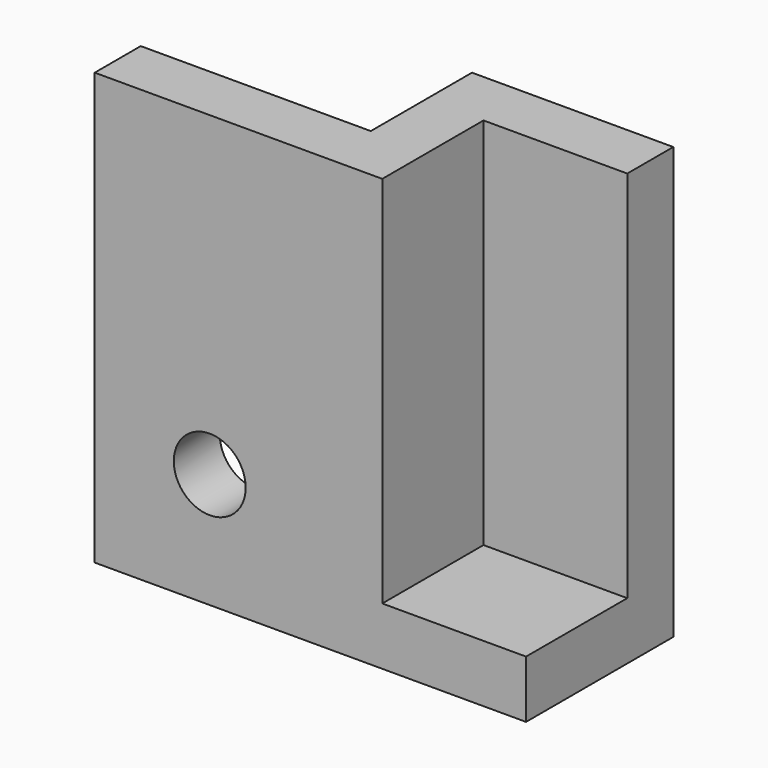
from build123d import *

# Parameters (mm, degrees)
F0_W     = 6.35
F0_H     = 2.54
F1_DEPTH = 19.05
F2_W     = 6.35
F2_H     = 5.588
F3_DEPTH = 2.54
F4_R     = 1.5875
F5_DEPTH = 25.4


with BuildPart() as f1:
    # F0 (on Top) → F1 (new body)
    with BuildSketch(Plane.XY):
        with Locations((15.875, 6.858)):
            Rectangle(F0_W, F0_H)
        Polygon((10.16, 2.54), (12.7, 2.54), (12.7, 5.588), (12.7, 8.128), (10.16, 8.128), align=None)
        Polygon((0, 2.54), (0, 0), (12.7, 0), (12.7, 2.54), (10.16, 2.54), align=None)
    extrude(amount=F1_DEPTH)

    # F2 (on face) → F3 (join)
    with BuildSketch(Plane(origin=(0, 0, 0), x_dir=(1, 0, 0), z_dir=(0, 0, -1))):
        with Locations((15.875, -2.794)):
            Rectangle(F2_W, F2_H)
    extrude(amount=-F3_DEPTH)

    # F4 (on face) → F5 (cut)
    with BuildSketch(Plane(origin=(0, 2.54, 0), x_dir=(-1, 0, 0), z_dir=(0, 1, 0))):
        with Locations((-5.08, 5.08)):
            Circle(F4_R)
    extrude(amount=-F5_DEPTH, mode=Mode.SUBTRACT)


solid = f1.part
